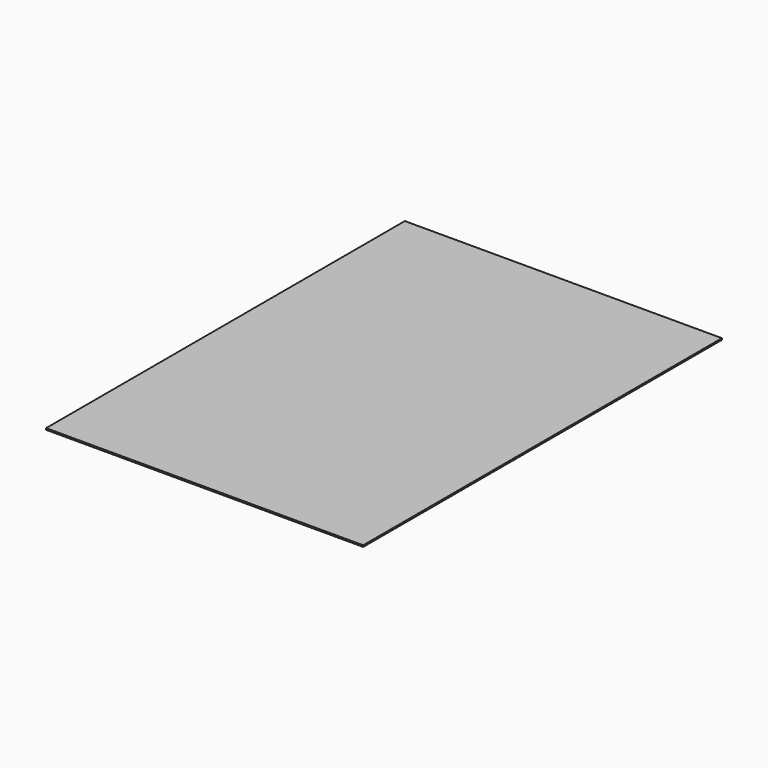
from build123d import *

# Parameters (mm, degrees)
F0_W     = 210
F0_H     = 297
F1_DEPTH = 0.5


with BuildPart() as f1:
    # F0 (on Top) → F1 (new body)
    with BuildSketch(Plane.XY):
        with Locations((-105, 0)):
            Rectangle(F0_W, F0_H)
    extrude(amount=F1_DEPTH)

    # F2: F1 across plane


with BuildPart() as f1_1:
    add(f1.part)
    add(f1.part.mirror(Plane.XY))


solid = f1_1.part
